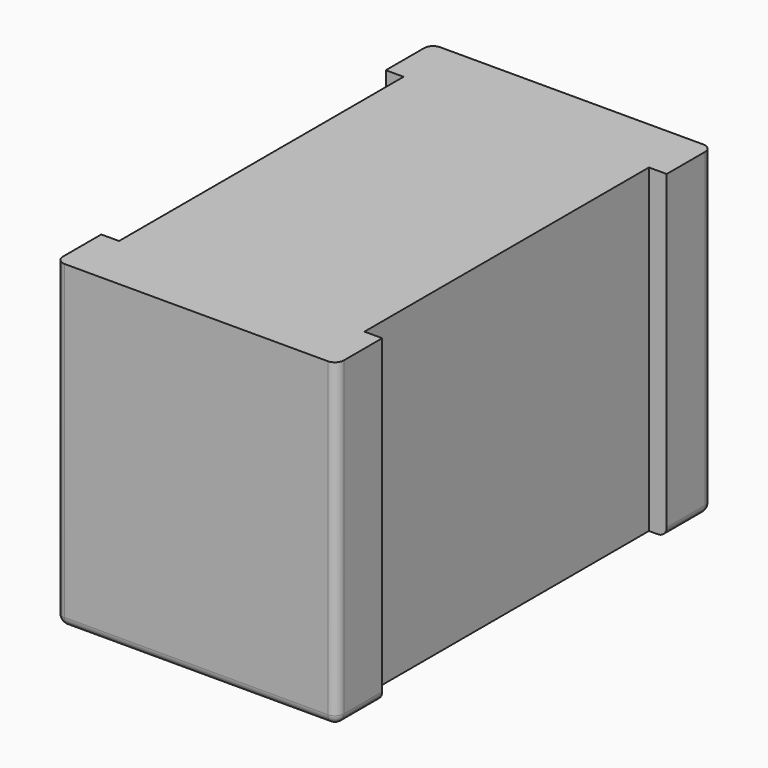
from build123d import *

# Parameters (mm, degrees)
SKETCH_W        = 7.9
SKETCH_H        = 13.2
PAD_DEPTH       = 9.5
SKETCH004_W     = 10
SKETCH004_H     = 9.5
POCKET_DEPTH    = 0.5
POCKET001_DEPTH = 0.5
FILLET001_R     = 0.25


with BuildPart() as part:
    # Sketch → Pad (new body)
    with BuildSketch(Plane.XY):
        Rectangle(SKETCH_W, SKETCH_H)
    extrude(amount=PAD_DEPTH)

    # Sketch004 → Pocket (cut)
    with BuildSketch(Plane.YZ.offset(3.95)):
        with Locations((0, 4.75)):
            Rectangle(SKETCH004_W, SKETCH004_H)
    pocket = extrude(amount=-POCKET_DEPTH, mode=Mode.SUBTRACT)

    # Mirrored: Pocket across YZ
    add(pocket.mirror(Plane.YZ), mode=Mode.SUBTRACT)

    # Sketch005 → Pocket001 (cut)
    with BuildSketch(Plane.XY.offset(9.5)):
        Polygon((-3.95, 6.6), (3.95, 6.6), (3.95, 5), (3.45, 5), (3.45, 0), (-3.45, 0), (-3.45, 5), (-3.95, 5), align=None)
    pocket001 = extrude(amount=-POCKET001_DEPTH, mode=Mode.SUBTRACT)

    # Mirrored001: Pocket001 across XZ
    add(pocket001.mirror(Plane.XZ), mode=Mode.SUBTRACT)

    # Fillet001
    fillet001_edges = [part.edges().sort_by_distance(p)[0] for p in [
        (3.95, -6.6, 4.5),
        (-3.95, -6.6, 4.5),
        (-3.95, 6.6, 4.5),
        (3.95, 6.6, 4.5),
        (0, 6.6, 0),
        (0, -6.6, 0),
        (3.95, -5.8, 0),
        (3.95, 5.8, 0),
        (-3.95, -5.8, 0),
        (-3.95, 5.8, 0),
    ]]
    fillet(fillet001_edges, radius=FILLET001_R)


solid = part.part
